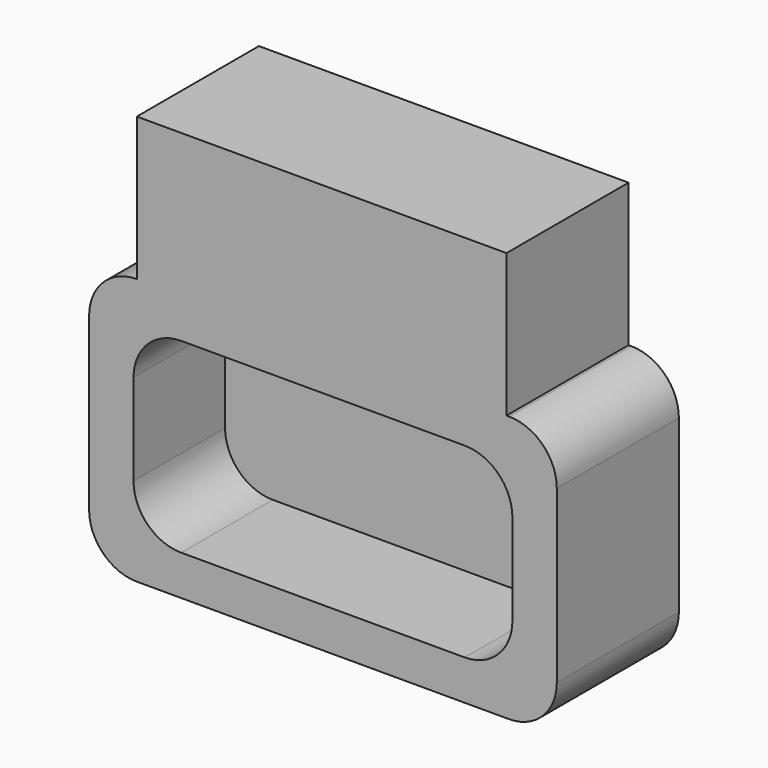
from build123d import *

# Parameters (mm, degrees)
F1_DEPTH = 19.05
F2_DEPTH = 5.08
F0_W     = 49.223448
F0_H     = 19.05
F3_DEPTH = 20.32


with BuildPart() as f1:
    # F0 (on Front) → F1 (new body)
    with BuildSketch(Plane.XZ):
        with BuildLine():
            Line((24.436552, 17.736208), (-24.786896, 17.736208))
            ThreePointArc((-24.786896, 17.736208), (-29.277025, 15.876336), (-31.136896, 11.386208))
            Line((-31.136896, 11.386208), (-31.136896, -11.386208))
            ThreePointArc((-31.136896, -11.386208), (-29.277025, -15.876336), (-24.786896, -17.736208))
            Line((-24.786896, -17.736208), (24.786896, -17.736208))
            ThreePointArc((24.786896, -17.736208), (29.277025, -15.876336), (31.136896, -11.386208))
            Line((31.136896, -11.386208), (31.136896, 11.386208))
            ThreePointArc((31.136896, 11.386208), (29.277025, 15.876336), (24.786896, 17.736208))
            Line((24.786896, 17.736208), (24.436552, 17.736208))
        make_face()
        with BuildLine():
            ThreePointArc((-25.224827, 6.065345), (-23.364955, 10.555473), (-18.874827, 12.415345))
            Line((-18.874827, 12.415345), (18.874827, 12.415345))
            ThreePointArc((18.874827, 12.415345), (23.364955, 10.555473), (25.224827, 6.065345))
            Line((25.224827, 6.065345), (25.224827, -6.065345))
            ThreePointArc((25.224827, -6.065345), (23.364955, -10.555473), (18.874827, -12.415345))
            Line((18.874827, -12.415345), (-18.874827, -12.415345))
            ThreePointArc((-18.874827, -12.415345), (-23.364955, -10.555473), (-25.224827, -6.065345))
            Line((-25.224827, -6.065345), (-25.224827, 6.065345))
        make_face(mode=Mode.SUBTRACT)
    extrude(amount=F1_DEPTH)

    # F0 (on Front) → F2 (join)
    with BuildSketch(Plane.XZ):
        with BuildLine():
            Line((18.874827, 12.415345), (-18.874827, 12.415345))
            ThreePointArc((-18.874827, 12.415345), (-23.364955, 10.555473), (-25.224827, 6.065345))
            Line((-25.224827, 6.065345), (-25.224827, -6.065345))
            ThreePointArc((-25.224827, -6.065345), (-23.364955, -10.555473), (-18.874827, -12.415345))
            Line((-18.874827, -12.415345), (18.874827, -12.415345))
            ThreePointArc((18.874827, -12.415345), (23.364955, -10.555473), (25.224827, -6.065345))
            Line((25.224827, -6.065345), (25.224827, 6.065345))
            ThreePointArc((25.224827, 6.065345), (23.364955, 10.555473), (18.874827, 12.415345))
        make_face()
    extrude(amount=F2_DEPTH)

    # F0 (on Front) → F3 (join)
    with BuildSketch(Plane.XZ):
        with Locations((-0.175172, 27.261208)):
            Rectangle(F0_W, F0_H)
        with BuildLine():
            Line((24.436552, 17.736208), (-24.786896, 17.736208))
            ThreePointArc((-24.786896, 17.736208), (-29.277025, 15.876336), (-31.136896, 11.386208))
            Line((-31.136896, 11.386208), (-31.136896, -11.386208))
            ThreePointArc((-31.136896, -11.386208), (-29.277025, -15.876336), (-24.786896, -17.736208))
            Line((-24.786896, -17.736208), (24.786896, -17.736208))
            ThreePointArc((24.786896, -17.736208), (29.277025, -15.876336), (31.136896, -11.386208))
            Line((31.136896, -11.386208), (31.136896, 11.386208))
            ThreePointArc((31.136896, 11.386208), (29.277025, 15.876336), (24.786896, 17.736208))
            Line((24.786896, 17.736208), (24.436552, 17.736208))
        make_face()
        with BuildLine():
            ThreePointArc((-25.224827, 6.065345), (-23.364955, 10.555473), (-18.874827, 12.415345))
            Line((-18.874827, 12.415345), (18.874827, 12.415345))
            ThreePointArc((18.874827, 12.415345), (23.364955, 10.555473), (25.224827, 6.065345))
            Line((25.224827, 6.065345), (25.224827, -6.065345))
            ThreePointArc((25.224827, -6.065345), (23.364955, -10.555473), (18.874827, -12.415345))
            Line((18.874827, -12.415345), (-18.874827, -12.415345))
            ThreePointArc((-18.874827, -12.415345), (-23.364955, -10.555473), (-25.224827, -6.065345))
            Line((-25.224827, -6.065345), (-25.224827, 6.065345))
        make_face(mode=Mode.SUBTRACT)
    extrude(amount=F3_DEPTH)


solid = f1.part
